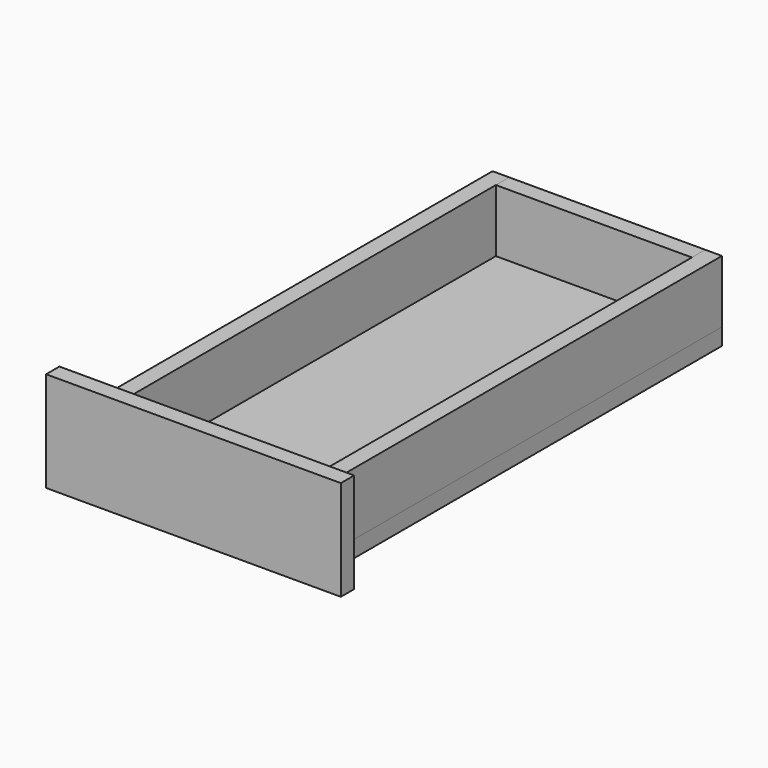
from build123d import *

# Parameters (mm, degrees)
F0_W     = 165
F0_H     = 360
F1_DEPTH = 12
F2_W     = 141
F2_H     = 12
F3_DEPTH = 45
F4_DEPTH = 45
F5_W     = 141
F5_H     = 45
F6_DEPTH = 12


with BuildPart() as f1:
    # F0 (on Top) → F1 (new body)
    with BuildSketch(Plane.XY):
        Rectangle(F0_W, F0_H)
    extrude(amount=F1_DEPTH)


with BuildPart() as f3:
    # F2 (on face) → F3 (new body)
    with BuildSketch(Plane.XY.offset(12)):
        with Locations((0, 174)):
            Rectangle(F2_W, F2_H)
    extrude(amount=F3_DEPTH)


with BuildPart() as f3b:
    # F2 (on face) → F3, piece 2 (new body)
    with BuildSketch(Plane.XY.offset(12)):
        with Locations((0, -174)):
            Rectangle(F2_W, F2_H)
    extrude(amount=F3_DEPTH)


with BuildPart() as f4:
    # F2 (on face) → F4 (new body)
    with BuildSketch(Plane.XY.offset(12)):
        Polygon((-82.5, 180), (-82.5, -180), (-70.5, -180), (-70.5, -168), (-70.5, 168), (-70.5, 180), align=None)
    extrude(amount=F4_DEPTH)


with BuildPart() as f4b:
    # F2 (on face) → F4, piece 2 (new body)
    with BuildSketch(Plane.XY.offset(12)):
        Polygon((70.5, -168), (70.5, -180), (82.5, -180), (82.5, 180), (70.5, 180), (70.5, 168), align=None)
    extrude(amount=F4_DEPTH)


with BuildPart() as f6:
    # F5 (on face) → F6 (new body)
    with BuildSketch(Plane.XZ.offset(180)):
        Polygon((-82.5, 0), (82.5, 0), (106, 0), (106, 72), (-106, 72), (-106, 0), align=None)
        with Locations((0, 34.5)):
            Rectangle(F5_W, F5_H, mode=Mode.SUBTRACT)
        with Locations((0, 34.5)):
            Rectangle(F5_W, F5_H)
    extrude(amount=F6_DEPTH)


solid = Compound([f1.part, f3.part, f3b.part, f4.part, f4b.part, f6.part])
